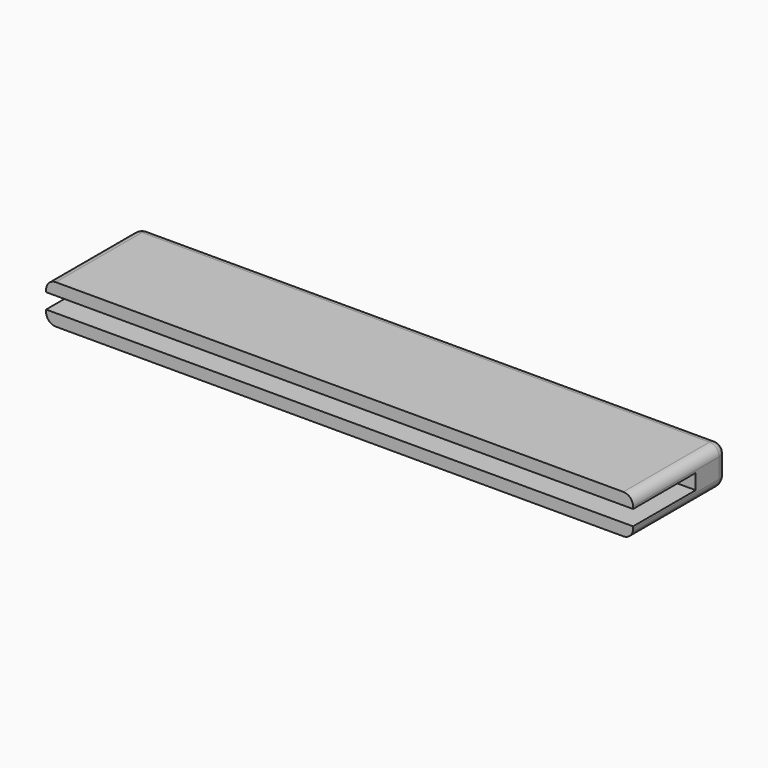
from build123d import *

# Parameters (mm, degrees)
F0_W     = 76.2
F0_H     = 5.08
F1_DEPTH = 15.24
F2_W     = 76.2
F2_H     = 1.9812
F3_DEPTH = 10.16
F4_R     = 1.27


with BuildPart() as f1:
    # F0 (on Front) → F1 (new body)
    with BuildSketch(Plane.XZ):
        with Locations((0, 2.54)):
            Rectangle(F0_W, F0_H)
    extrude(amount=F1_DEPTH)

    # F2 (on face) → F3 (cut)
    with BuildSketch(Plane.XZ.offset(15.24)):
        with Locations((0, 2.54)):
            Rectangle(F2_W, F2_H)
    extrude(amount=-F3_DEPTH, mode=Mode.SUBTRACT)

    # F4
    f4_edges = [f1.edges().sort_by_distance(p)[0] for p in [
        (0, 0, 5.08),
        (0, 0, 0),
        (-38.1, 0, 2.54),
        (38.1, 0, 2.54),
        (38.1, -7.62, 5.08),
        (38.1, -7.62, 0),
        (-38.1, -7.62, 5.08),
        (-38.1, -7.62, 0),
    ]]
    fillet(f4_edges, radius=F4_R)


solid = f1.part
